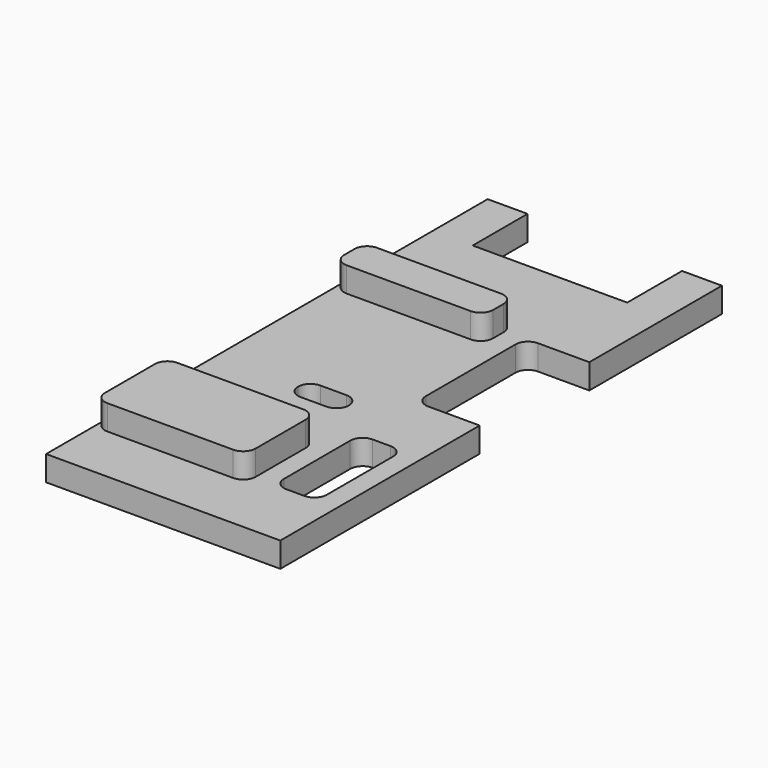
from build123d import *

# Parameters (mm, degrees)
F1_DEPTH = 2
F3_DEPTH = 2


with BuildPart() as f1:
    # F0 (on Top) → F1 (new body)
    with BuildSketch(Plane.XY):
        with BuildLine():
            Line((9.4, 8.849999), (9.4, 22.150001))
            Line((9.4, 22.150001), (6.2, 22.150001))
            Line((6.2, 22.150001), (6.2, 16.650001))
            Line((6.2, 16.650001), (-6.2, 16.650001))
            Line((-6.2, 16.650001), (-6.2, 22.150001))
            Line((-6.2, 22.150001), (-9.4, 22.150001))
            Line((-9.4, 22.150001), (-9.4, -22.150001))
            Line((-9.4, -22.150001), (9.4, -22.150001))
            Line((9.4, -22.150001), (9.4, -2.150001))
            Line((9.4, -2.150001), (5.278115, -2.150001))
            ThreePointArc((5.278115, -2.150001), (4.571009, -1.857107), (4.278115, -1.150001))
            Line((4.278115, -1.150001), (4.278115, 7.849999))
            ThreePointArc((4.278115, 7.849999), (4.571009, 8.557106), (5.278115, 8.849999))
            Line((5.278115, 8.849999), (9.4, 8.849999))
        make_face()
        with BuildLine():
            ThreePointArc((-2.781032, -5.150001), (-2.488044, -4.443068), (-1.781032, -4.150269))
            Line((-1.781032, -4.150269), (0.300655, -4.150269))
            ThreePointArc((0.300655, -4.150269), (1.007666, -4.443068), (1.300655, -5.150001))
            Line((1.300655, -5.150001), (1.300655, -5.150269))
            ThreePointArc((1.300655, -5.150269), (1.007666, -5.857202), (0.300655, -6.150001))
            Line((0.300655, -6.150001), (-1.781032, -6.150001))
            ThreePointArc((-1.781032, -6.150001), (-2.488044, -5.857202), (-2.781032, -5.150269))
            Line((-2.781032, -5.150269), (-2.781032, -5.150001))
        make_face(mode=Mode.SUBTRACT)
        with BuildLine():
            ThreePointArc((4.34929, -8.82258), (4.642183, -8.115473), (5.34929, -7.82258))
            Line((5.34929, -7.82258), (6.79145, -7.82258))
            ThreePointArc((6.79145, -7.82258), (7.498557, -8.115473), (7.79145, -8.82258))
            Line((7.79145, -8.82258), (7.79145, -15.477421))
            ThreePointArc((7.79145, -15.477421), (7.498557, -16.184528), (6.79145, -16.477421))
            Line((6.79145, -16.477421), (5.34929, -16.477421))
            ThreePointArc((5.34929, -16.477421), (4.642183, -16.184528), (4.34929, -15.477421))
            Line((4.34929, -15.477421), (4.34929, -8.82258))
        make_face(mode=Mode.SUBTRACT)
    extrude(amount=F1_DEPTH)

    # F2 (on face) → F3 (join)
    with BuildSketch(Plane.XY.offset(2)):
        with BuildLine():
            Line((1.663936, 9.65981), (-8.288911, 9.65981))
            ThreePointArc((-8.288911, 9.65981), (-8.996017, 9.366917), (-9.288911, 8.65981))
            Line((-9.288911, 8.65981), (-9.288911, 7.619738))
            ThreePointArc((-9.288911, 7.619738), (-8.996017, 6.912631), (-8.288911, 6.619738))
            Line((-8.288911, 6.619738), (1.663936, 6.619738))
            ThreePointArc((1.663936, 6.619738), (2.371043, 6.912631), (2.663936, 7.619738))
            Line((2.663936, 7.619738), (2.663936, 8.65981))
            ThreePointArc((2.663936, 8.65981), (2.371043, 9.366917), (1.663936, 9.65981))
        make_face()
        with BuildLine():
            Line((1.790998, -10.344891), (-8.303308, -10.344891))
            ThreePointArc((-8.303308, -10.344891), (-9.010415, -10.637784), (-9.303308, -11.344891))
            Line((-9.303308, -11.344891), (-9.303308, -16.363489))
            ThreePointArc((-9.303308, -16.363489), (-9.010415, -17.070595), (-8.303308, -17.363489))
            Line((-8.303308, -17.363489), (1.790998, -17.363489))
            ThreePointArc((1.790998, -17.363489), (2.498104, -17.070595), (2.790998, -16.363489))
            Line((2.790998, -16.363489), (2.790998, -11.344891))
            ThreePointArc((2.790998, -11.344891), (2.498104, -10.637784), (1.790998, -10.344891))
        make_face()
    extrude(amount=F3_DEPTH)


solid = f1.part
